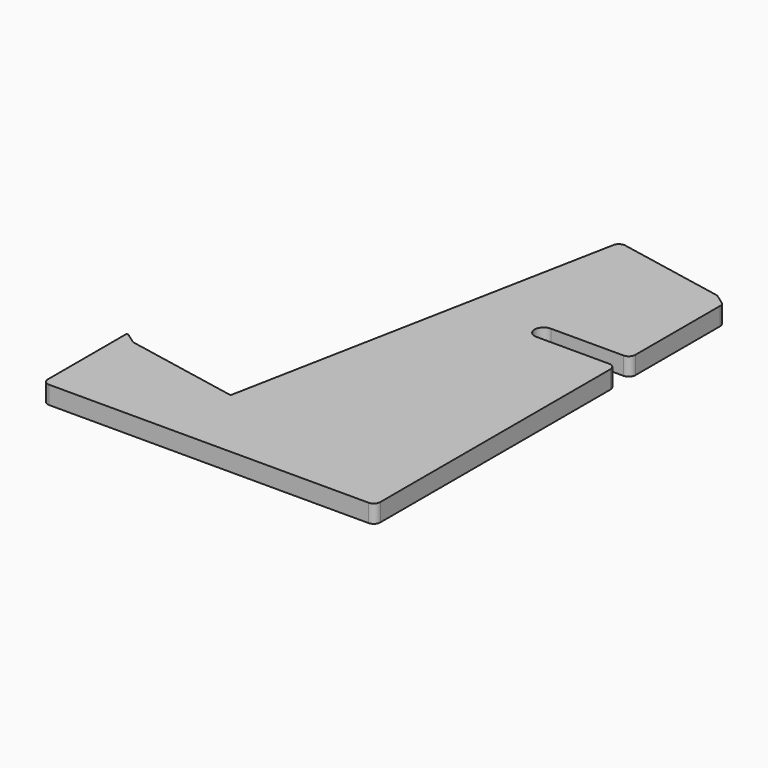
from build123d import *

# Parameters (mm, degrees)
F1_DEPTH = 17.4625


with BuildPart() as f1:
    # F0 (on Top) → F1 (new body)
    with BuildSketch(Plane.XY):
        with BuildLine():
            Line((-84.169783, -1.641967), (-93.525323, 4.941889))
            ThreePointArc((-93.525323, 4.941889), (-94.841312, 5.030488), (-95.526224, 3.903292))
            Line((-95.526224, 3.903292), (-95.526224, -90.5315))
            ThreePointArc((-95.526224, -90.5315), (-93.666352, -95.021628), (-89.176224, -96.8815))
            Line((-89.176224, -96.8815), (221.489891, -96.8815))
            ThreePointArc((221.489891, -96.8815), (225.980019, -95.021628), (227.839891, -90.5315))
            Line((227.839891, -90.5315), (227.839891, 189.453899))
            ThreePointArc((227.839891, 189.453899), (225.980019, 193.944027), (221.489891, 195.803899))
            Line((221.489891, 195.803899), (150.725491, 195.803899))
            ThreePointArc((150.725491, 195.803899), (141.994241, 204.535149), (150.725491, 213.266399))
            Line((150.725491, 213.266399), (221.489891, 213.266399))
            ThreePointArc((221.489891, 213.266399), (225.980019, 215.126271), (227.839891, 219.616399))
            Line((227.839891, 219.616399), (227.839891, 322.754246))
            ThreePointArc((227.839891, 322.754246), (227.125873, 325.679685), (225.144395, 327.947231))
            Line((225.144395, 327.947231), (216.48345, 334.042273))
            ThreePointArc((216.48345, 334.042273), (215.316999, 334.691555), (214.040582, 335.08262))
            Line((214.040582, 335.08262), (109.406571, 355.421412))
            ThreePointArc((109.406571, 355.421412), (104.644059, 354.452468), (101.961601, 350.399716))
            Line((101.961601, 350.399716), (76.775418, 220.828036))
            Line((76.775418, 220.828036), (75.305585, 213.266399))
            Line((75.305585, 213.266399), (71.911218, 195.803899))
            Line((71.911218, 195.803899), (70.912422, 190.665536))
            Line((70.912422, 190.665536), (29.140428, -24.232742))
            Line((29.140428, -24.232742), (-81.726916, -2.682314))
            ThreePointArc((-81.726916, -2.682314), (-83.003333, -2.291248), (-84.169783, -1.641967))
        make_face()
    extrude(amount=F1_DEPTH)


solid = f1.part
